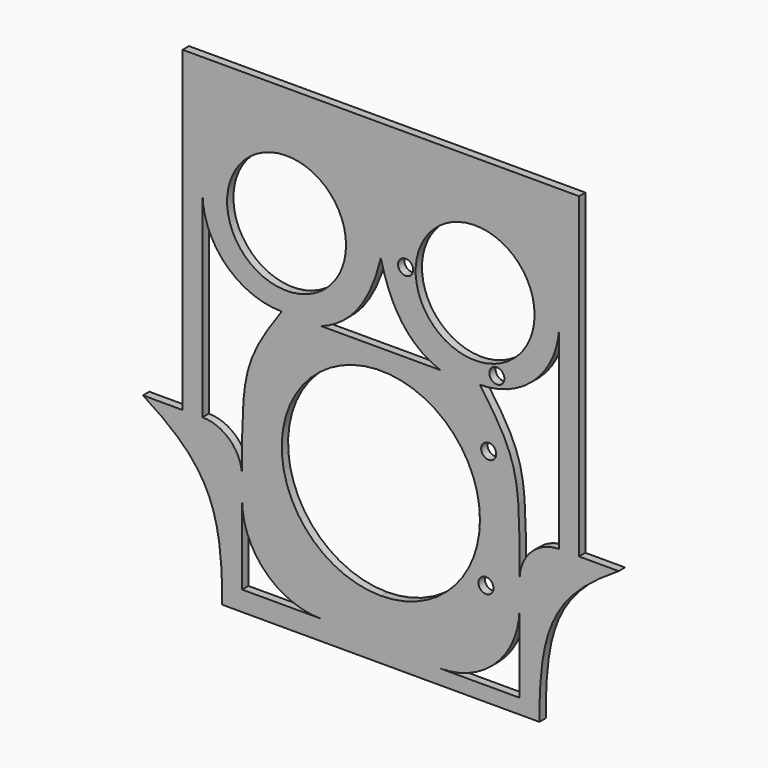
from build123d import *

# Parameters (mm, degrees)
F0_R     = 4.826
F0_R_2   = 38.1
F1_DEPTH = 5.08


with BuildPart() as f1:
    # F0 (on Front) → F1 (new body)
    with BuildSketch(Plane.XZ):
        with BuildLine():
            ThreePointArc((4.826, -40.4855), (-3.412497, -37.073003), (0, -45.3115))
            ThreePointArc((0, -45.3115), (3.412497, -43.897998), (4.826, -40.4855))
        make_face()
        with BuildLine():
            ThreePointArc((0, -103.9855), (44.901281, -85.386781), (63.5, -40.4855))
            ThreePointArc((63.5, -40.4855), (-44.901281, 4.41578), (0, -103.9855))
        make_face()
        with BuildLine():
            ThreePointArc((4.826, -40.4855), (3.412497, -43.897998), (0, -45.3115))
            ThreePointArc((0, -45.3115), (-3.412497, -37.073003), (4.826, -40.4855))
        make_face(mode=Mode.SUBTRACT)
        with BuildLine():
            Line((-101.6, -142.0855), (0, -142.0855))
            Line((0, -142.0855), (101.6, -142.0855))
            add(Edge.make_bspline(
                [(152.4, -40.4855), (109.694328, -67.067928), (101.6, -88.495204), (101.6, -142.0855)],
                knots=[0, 0, 0, 0, 113.592253, 113.592253, 113.592253, 113.592253], degree=3))
            Line((152.4, -40.4855), (127, -40.4855))
            Line((127, -40.4855), (127, 162.7145))
            Line((127, 162.7145), (0, 162.7145))
            Line((0, 162.7145), (-127, 162.7145))
            Line((-127, 162.7145), (-127, -40.4855))
            Line((-127, -40.4855), (-152.4, -40.4855))
            add(Edge.make_bspline(
                [(-152.4, -40.4855), (-110.122652, -67.067928), (-101.6, -88.495204), (-101.6, -142.0855)],
                knots=[0, 0, 0, 0, 113.592253, 113.592253, 113.592253, 113.592253], degree=3))
        make_face()
        with BuildLine():
            Line((-38.1, -129.3855), (-88.9, -129.3855))
            Line((-88.9, -129.3855), (-88.9, -78.5855))
            ThreePointArc((-88.9, -78.5855), (-74.021024, -114.506525), (-38.1, -129.3855))
        make_face(mode=Mode.SUBTRACT)
        with BuildLine():
            Line((88.9, -81.775169), (88.9, -132.575169))
            Line((88.9, -132.575169), (38.1, -132.575169))
            ThreePointArc((38.1, -132.575169), (74.021024, -117.696194), (88.9, -81.775169))
        make_face(mode=Mode.SUBTRACT)
        with Locations((67.368673, -76.255888)):
            Circle(F0_R, mode=Mode.SUBTRACT)
        with BuildLine():
            ThreePointArc((0, -103.9855), (-44.901281, 4.41578), (63.5, -40.4855))
            ThreePointArc((63.5, -40.4855), (44.901281, -85.386781), (0, -103.9855))
        make_face(mode=Mode.SUBTRACT)
        with Locations((69.128864, 0)):
            Circle(F0_R, mode=Mode.SUBTRACT)
        with BuildLine():
            Line((-114.3, -40.4855), (-114.3, 35.7145))
            Line((-114.3, 35.7145), (-114.3, 86.5145))
            ThreePointArc((-114.3, 86.5145), (-99.421024, 50.593475), (-63.5, 35.7145))
            add(Edge.make_bspline(
                [(-63.5, 35.7145), (-88.9, 0), (-88.9, -7.950009), (-88.9, -65.8855)],
                knots=[0, 0, 0, 0, 104.726883, 104.726883, 104.726883, 104.726883], degree=3))
            ThreePointArc((-88.9, -65.8855), (-96.339488, -47.924988), (-114.3, -40.4855))
        make_face(mode=Mode.SUBTRACT)
        with Locations((-60.4012, 86.5145)):
            Circle(F0_R_2, mode=Mode.SUBTRACT)
        with Locations((74.326382, 44.221808)):
            Circle(F0_R, mode=Mode.SUBTRACT)
        with BuildLine():
            Line((38.1, 35.7145), (0, 35.7145))
            Line((0, 35.7145), (-38.1, 35.7145))
            add(Edge.make_bspline(
                [(0, 86.5145), (-5.709158, 63.064108), (-16.30106, 43.837823), (-38.1, 35.7145)],
                knots=[0, 0, 0, 0, 63.5, 63.5, 63.5, 63.5], degree=3))
            add(Edge.make_bspline(
                [(38.1, 35.7145), (16.301064, 43.837823), (5.709161, 63.064108), (0, 86.5145)],
                knots=[0, 0, 0, 0, 63.5, 63.5, 63.5, 63.5], degree=3))
        make_face(mode=Mode.SUBTRACT)
        with BuildLine():
            Line((114.3, 86.5145), (114.3, 35.7145))
            Line((114.3, 35.7145), (114.3, -40.4855))
            ThreePointArc((114.3, -40.4855), (96.339488, -47.924988), (88.9, -65.8855))
            add(Edge.make_bspline(
                [(63.500154, 35.7145), (88.9, -3.2e-05), (88.9, -7.950126), (88.9, -65.8855)],
                knots=[0.000212, 0.000212, 0.000212, 0.000212, 104.727094, 104.727094, 104.727094, 104.727094], degree=3))
            ThreePointArc((63.500154, 35.7145), (99.421079, 50.59353), (114.3, 86.5145))
        make_face(mode=Mode.SUBTRACT)
        with Locations((15.875, 86.5145)):
            Circle(F0_R, mode=Mode.SUBTRACT)
        with Locations((60.4012, 86.5145)):
            Circle(F0_R_2, mode=Mode.SUBTRACT)
    extrude(amount=F1_DEPTH)


solid = f1.part
